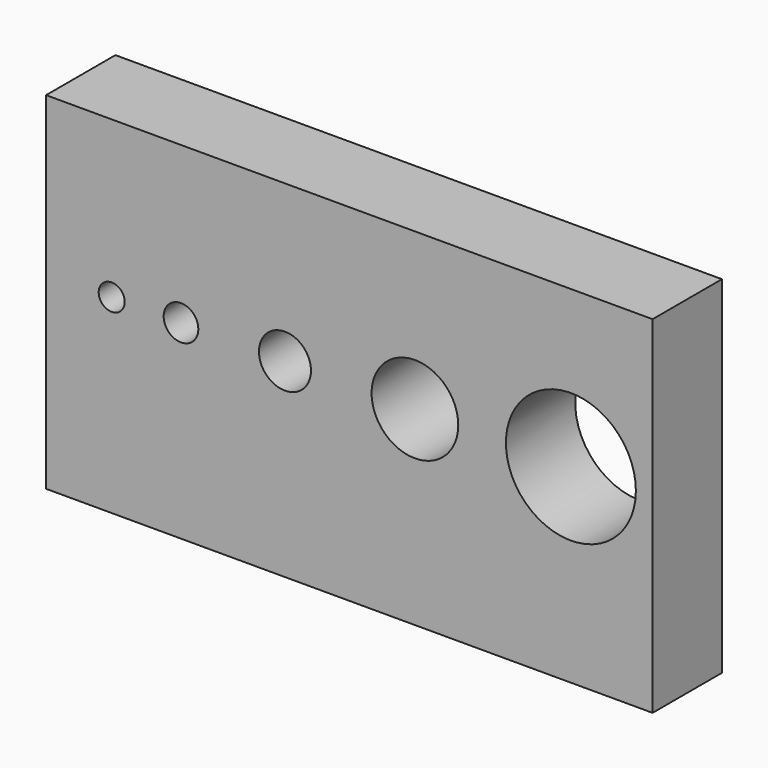
from build123d import *

# Parameters (mm, degrees)
F0_W     = 70
F0_H     = 10
F1_DEPTH = 40
F2_R     = 5
F2_R_2   = 7.5
F2_R_3   = 3
F2_R_4   = 2
F2_R_5   = 1.5
F3_DEPTH = 25


with BuildPart() as f1:
    # F0 (on Top) → F1 (new body)
    with BuildSketch(Plane.XY):
        Rectangle(F0_W, F0_H)
    extrude(amount=F1_DEPTH)

    # F2 (on face) → F3 (cut)
    with BuildSketch(Plane.XZ.offset(5)):
        with Locations((7.570139, 21.938406)):
            Circle(F2_R)
        with Locations((25.570139, 21.938406)):
            Circle(F2_R_2)
        with Locations((-7.429861, 21.938406)):
            Circle(F2_R_3)
        with Locations((-19.429861, 21.938406)):
            Circle(F2_R_4)
        with Locations((-27.429861, 21.938406)):
            Circle(F2_R_5)
    extrude(amount=-F3_DEPTH, mode=Mode.SUBTRACT)


solid = f1.part
